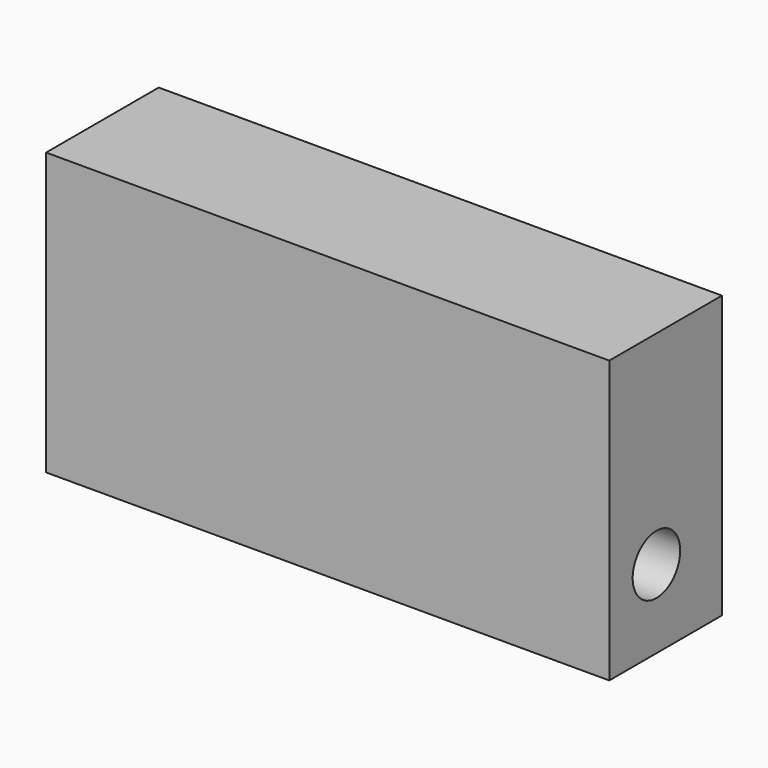
from build123d import *

# Parameters (mm, degrees)
F0_W     = 101.6
F0_H     = 50.8
F1_DEPTH = 25.4
F2_R     = 5.355882
F3_DEPTH = 127


with BuildPart() as f1:
    # F0 (on Front) → F1 (new body)
    with BuildSketch(Plane.XZ):
        Rectangle(F0_W, F0_H)
    extrude(amount=F1_DEPTH)

    # F2 (on face) → F3 (cut)
    with BuildSketch(Plane.YZ.offset(50.8)):
        with Locations((-14.767375, -11.291074)):
            Circle(F2_R)
    extrude(amount=-F3_DEPTH, mode=Mode.SUBTRACT)


solid = f1.part
